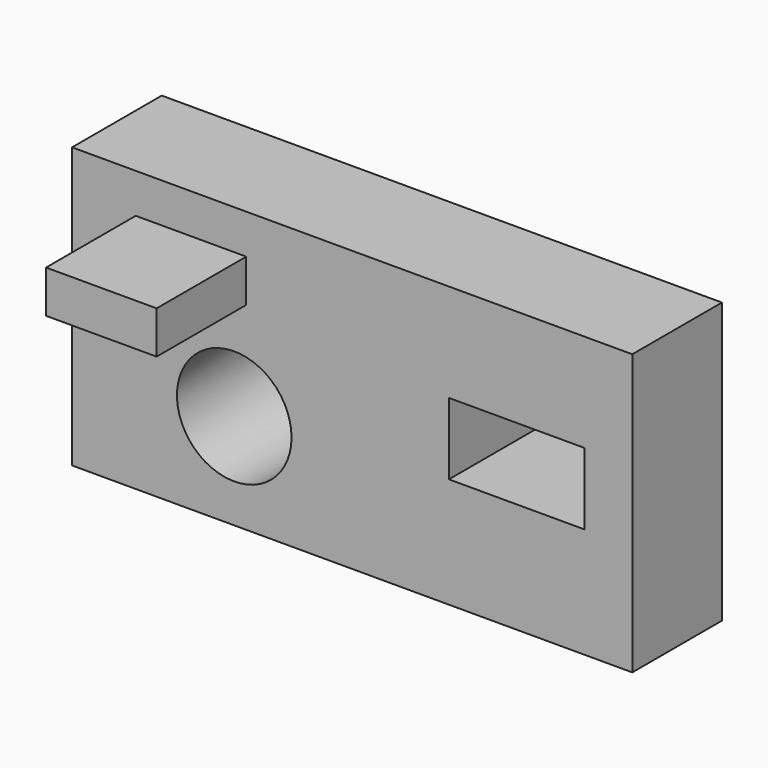
from build123d import *

# Parameters (mm, degrees)
F0_W     = 100
F0_H     = 50
F1_DEPTH = 20
F2_R     = 10.225485
F3_DEPTH = 20.001
F4_W     = 24.237767
F4_H     = 12.803474
F5_DEPTH = 20.001
F6_W     = 19.731463
F6_H     = 7.589027
F7_DEPTH = 20


with BuildPart() as f1:
    # F0 (on Front) → F1 (new body)
    with BuildSketch(Plane.XZ):
        with Locations((50, 25)):
            Rectangle(F0_W, F0_H)
    extrude(amount=F1_DEPTH)

    # F2 (on Front) → F3 (cut, through all)
    with BuildSketch(Plane.XZ):
        with Locations((28.946707, 17.129513)):
            Circle(F2_R)
    extrude(amount=F3_DEPTH, mode=Mode.SUBTRACT)

    # F4 (on face) → F5 (cut, through all)
    with BuildSketch(Plane.XZ.offset(20)):
        with Locations((79.387456, 26.100426)):
            Rectangle(F4_W, F4_H)
    extrude(amount=-F5_DEPTH, mode=Mode.SUBTRACT)

    # F6 (on face) → F7 (join)
    with BuildSketch(Plane.XZ.offset(20)):
        with Locations((21.223658, 39.137683)):
            Rectangle(F6_W, F6_H)
    extrude(amount=F7_DEPTH)


solid = f1.part
